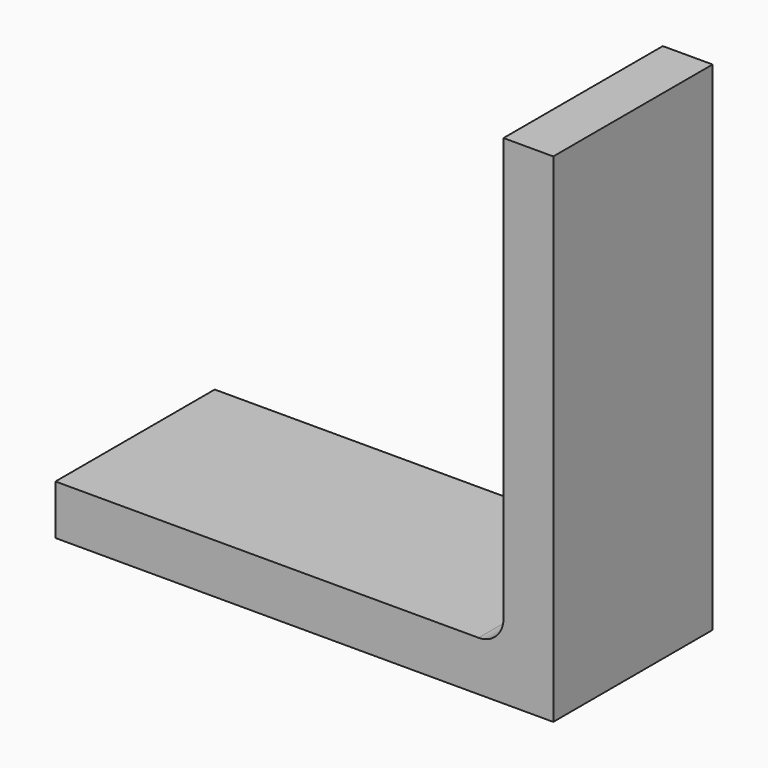
from build123d import *

# Parameters (mm, degrees)
PAD_DEPTH    = 20
FILLET_R     = 5
PAD001_DEPTH = 10
BOX_W        = 20
BOX_H        = 15
BOX_DEPTH    = 20


with BuildPart() as body:
    # Sketch → Pad (new body, symmetric)
    with BuildSketch(Plane.XZ):
        Polygon((-90, 0), (0, 0), (0, 90), (10, 90), (10, -10), (-90, -10), align=None)
    extrude(amount=PAD_DEPTH, both=True)

    # Fillet
    fillet_edges = [body.edges().sort_by_distance(p)[0] for p in [
        (0, 0, 0),
    ]]
    fillet(fillet_edges, radius=FILLET_R)

    # Sketch001 (on Face2 of Fillet) → Pad001 (join)
    with BuildSketch(Plane(origin=(0, 20, 0), x_dir=(1, 0, 0), z_dir=(0, 1, 0))):
        Polygon((-10, 0), (0, -10), (0, 0), align=None)
    extrude(amount=-PAD001_DEPTH)


with BuildPart() as box:
    # Box → Box (new body)
    with BuildSketch(Plane(origin=(-15, 5, -5), x_dir=(1, 0, 0), z_dir=(0, 0, 1))):
        with Locations((10, 7.5)):
            Rectangle(BOX_W, BOX_H)
    extrude(amount=BOX_DEPTH)


solid = Compound([body.part, box.part])
